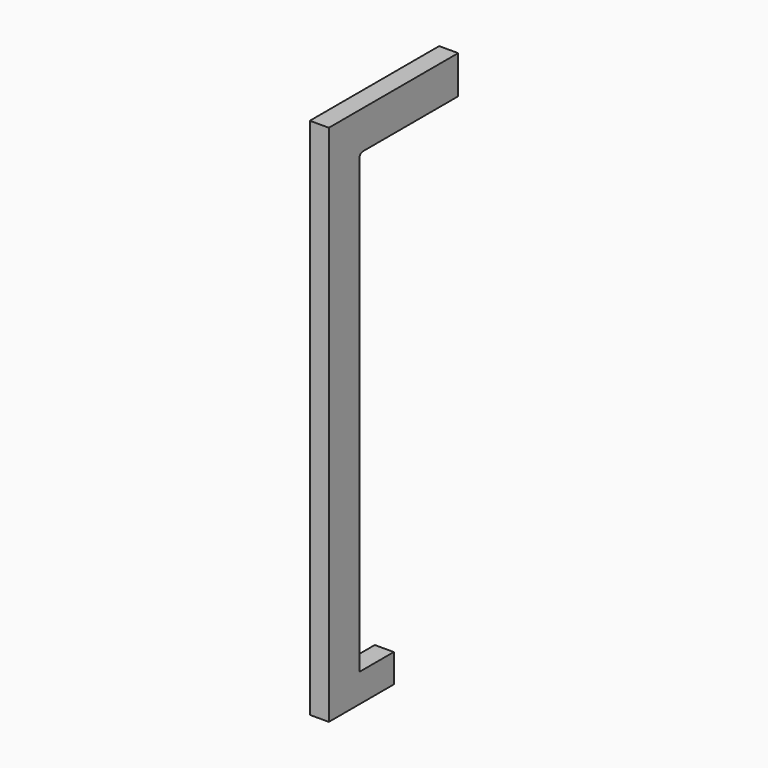
from build123d import *

# Parameters (mm, degrees)
F0_W     = 45.37122
F0_H     = 30
F1_DEPTH = 20


with BuildPart() as f1:
    # F0 (on Right) → F1 (new body)
    with BuildSketch(Plane.YZ):
        with BuildLine():
            Line((-40, 550), (-40, 0))
            Line((-40, 0), (0, 0))
            Line((0, 0), (0, 30))
            Line((0, 30), (0, 505))
            ThreePointArc((0, 505), (1.464466, 508.535534), (5, 510))
            Line((5, 510), (130, 510))
            Line((130, 510), (130, 550))
            Line((130, 550), (-40, 550))
        make_face()
        with Locations((22.68561, 15)):
            Rectangle(F0_W, F0_H)
    extrude(amount=F1_DEPTH)


solid = f1.part
